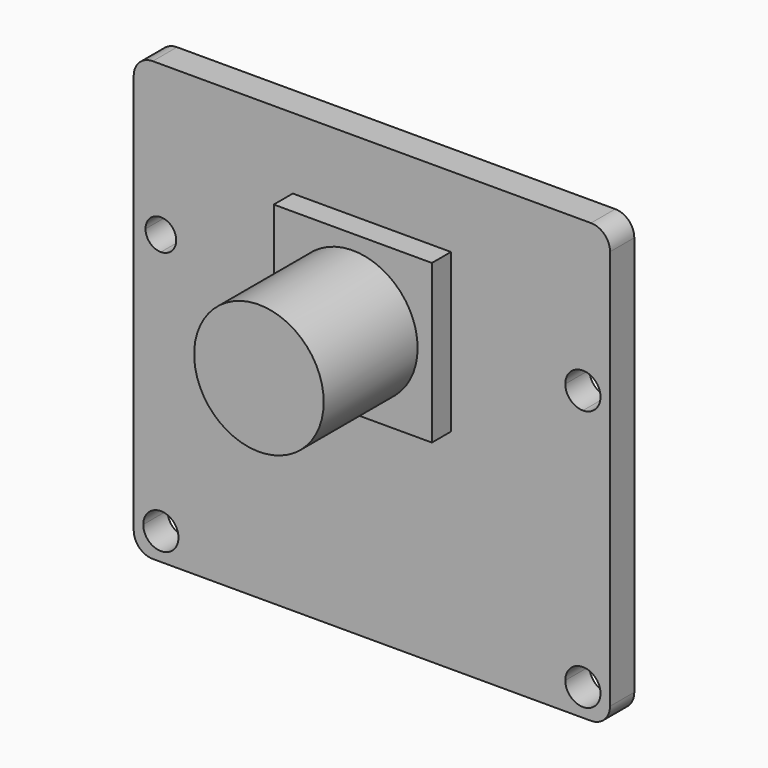
from build123d import *

# Parameters (mm, degrees)
F0_W     = 25
F0_H     = 23
F1_DEPTH = 1.59
F3_DEPTH = 25
F2_W     = 4.15
F2_H     = 4.15
F2_H_2   = 3.6240464542
F2_H_3   = 0.5259535458
F4_DEPTH = 1.25
F5_R     = 3.4
F6_DEPTH = 6.16
F7_R     = 1


with BuildPart() as f1:
    # F0 (on Front) → F1 (new body)
    with BuildSketch(Plane.XZ):
        Rectangle(F0_W, F0_H)
    extrude(amount=F1_DEPTH)

    # F2 (on face) → F3 (cut)
    with BuildSketch(Plane.XZ.offset(1.59)):
        with BuildLine():
            Line((-10.2684276358, 3.6240464542), (-11.075, 3.6240464542))
            Line((-11.075, 3.6240464542), (-11.075, 2.81747409))
            ThreePointArc((-11.075, 2.81747409), (-10.5046672118, 3.053713666), (-10.2684276358, 3.6240464542))
        make_face()
        with BuildLine():
            ThreePointArc((-10.2684276358, 3.6240464542), (-10.5046672118, 4.1943792424), (-11.075, 4.4306188184))
            Line((-11.075, 4.4306188184), (-11.075, 3.6240464542))
            Line((-11.075, 3.6240464542), (-10.2684276358, 3.6240464542))
        make_face()
        with BuildLine():
            Line((-11.075, 3.6240464542), (-11.075, 4.4306188184))
            ThreePointArc((-11.075, 4.4306188184), (-11.6453327882, 4.1943792424), (-11.8815723642, 3.6240464542))
            Line((-11.8815723642, 3.6240464542), (-11.075, 3.6240464542))
        make_face()
        with BuildLine():
            Line((-11.075, 2.81747409), (-11.075, 3.6240464542))
            Line((-11.075, 3.6240464542), (-11.8815723642, 3.6240464542))
            ThreePointArc((-11.8815723642, 3.6240464542), (-11.6453327882, 3.053713666), (-11.075, 2.81747409))
        make_face()
        with BuildLine():
            Line((-11.075, -10.075), (-11.075, -9.15))
            ThreePointArc((-11.075, -9.15), (-11.7290737726, -9.4209262274), (-12, -10.075))
            Line((-12, -10.075), (-11.075, -10.075))
        make_face()
        with BuildLine():
            Line((-11.075, -10.075), (-10.15, -10.075))
            ThreePointArc((-10.15, -10.075), (-10.4209262274, -9.4209262274), (-11.075, -9.15))
            Line((-11.075, -9.15), (-11.075, -10.075))
        make_face()
        with BuildLine():
            ThreePointArc((-12, -10.075), (-11.075, -11), (-10.15, -10.075))
            Line((-10.15, -10.075), (-11.075, -10.075))
            Line((-11.075, -10.075), (-12, -10.075))
        make_face()
        with BuildLine():
            Line((11.075, -10.075), (10.15, -10.075))
            ThreePointArc((10.15, -10.075), (11.075, -11), (12, -10.075))
            Line((12, -10.075), (11.075, -10.075))
        make_face()
        with BuildLine():
            ThreePointArc((12, -10.075), (11.7290737726, -9.4209262274), (11.075, -9.15))
            Line((11.075, -9.15), (11.075, -10.075))
            Line((11.075, -10.075), (12, -10.075))
        make_face()
        with BuildLine():
            ThreePointArc((11.075, -9.15), (10.4209262274, -9.4209262274), (10.15, -10.075))
            Line((10.15, -10.075), (11.075, -10.075))
            Line((11.075, -10.075), (11.075, -9.15))
        make_face()
        with BuildLine():
            Line((11.075, 2.6990464542), (11.075, 3.6240464542))
            Line((11.075, 3.6240464542), (10.15, 3.6240464542))
            ThreePointArc((10.15, 3.6240464542), (10.4209262274, 2.9699726816), (11.075, 2.6990464542))
        make_face()
        with BuildLine():
            ThreePointArc((12, 3.6240464542), (11.7290737726, 4.2781202268), (11.075, 4.5490464542))
            Line((11.075, 4.5490464542), (11.075, 3.6240464542))
            Line((11.075, 3.6240464542), (12, 3.6240464542))
        make_face()
        with BuildLine():
            Line((12, 3.6240464542), (11.075, 3.6240464542))
            Line((11.075, 3.6240464542), (11.075, 2.6990464542))
            ThreePointArc((11.075, 2.6990464542), (11.7290737726, 2.9699726816), (12, 3.6240464542))
        make_face()
        with BuildLine():
            Line((11.075, 3.6240464542), (11.075, 4.5490464542))
            ThreePointArc((11.075, 4.5490464542), (10.4209262274, 4.2781202268), (10.15, 3.6240464542))
            Line((10.15, 3.6240464542), (11.075, 3.6240464542))
        make_face()
    extrude(amount=-F3_DEPTH, mode=Mode.SUBTRACT)

    # F2 (on face) → F4 (join)
    with BuildSketch(Plane.XZ.offset(1.59)):
        with Locations((-2.075, 5.6990464542)):
            Rectangle(F2_W, F2_H)
        with Locations((2.075, 5.6990464542)):
            Rectangle(F2_W, F2_H)
        with Locations((2.075, 1.8120232271)):
            Rectangle(F2_W, F2_H_2)
        with Locations((-2.075, 1.8120232271)):
            Rectangle(F2_W, F2_H_2)
        with Locations((-2.075, -0.2629767729)):
            Rectangle(F2_W, F2_H_3)
        with Locations((2.075, -0.2629767729)):
            Rectangle(F2_W, F2_H_3)
    extrude(amount=F4_DEPTH)

    # F5 (on face) → F6 (join)
    with BuildSketch(Plane.XZ.offset(2.84)):
        with Locations((0, 3.603294285)):
            Circle(F5_R)
    extrude(amount=F6_DEPTH)

    # F7
    f7_edges = [f1.edges().sort_by_distance(p)[0] for p in [
        (-12.5, -0.795, -11.5),
        (-12.5, -0.795, 11.5),
        (12.5, -0.795, -11.5),
        (12.5, -0.795, 11.5),
    ]]
    fillet(f7_edges, radius=F7_R)


solid = f1.part
